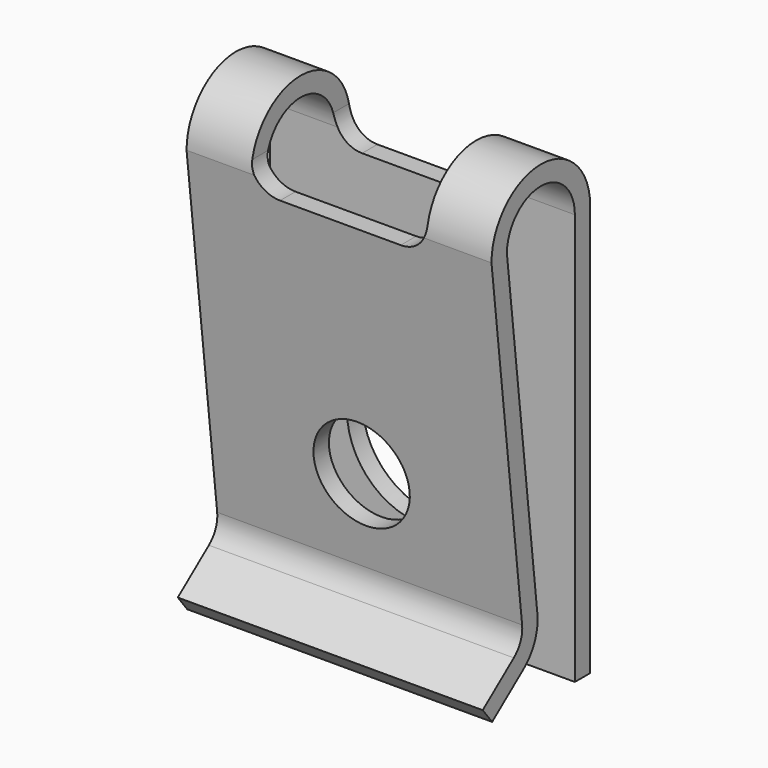
from build123d import *

# Parameters (mm, degrees)
F1_DEPTH = 5.56
F2_W     = 6.4
F2_H     = 3.95
F2_H_2   = 0.55
F2_R     = 1.75
F3_DEPTH = 4.901
F2_R_2   = 2.75
F4_DEPTH = 0.7
F5_R     = 1
F6_R     = 1.7


with BuildPart() as f1:
    # F0 (on Right) → F1 (new body, symmetric)
    with BuildSketch(Plane.YZ):
        with BuildLine():
            Line((1.55, -15), (2.25, -15))
            Line((2.25, -15), (2.25, 0))
            ThreePointArc((2.25, 0), (0, 2.25), (-2.25, 0))
            Line((-2.25, 0), (-0.790171, -12.749847))
            Line((-0.790171, -12.749847), (-2.65, -14.197634))
            Line((-2.65, -14.197634), (-2.22001, -14.75))
            Line((-2.22001, -14.75), (-0.05, -13.060752))
            Line((-0.05, -13.060752), (-1.549576, 0.036243))
            ThreePointArc((-1.549576, 0.036243), (0.018123, 1.549894), (1.55, 0))
            Line((1.55, 0), (1.55, -15))
        make_face()
    extrude(amount=F1_DEPTH, both=True)

    # F2 (on face) → F3 (cut, through all)
    with BuildSketch(Plane(origin=(0, 2.25, 0), x_dir=(-1, 0, 0), z_dir=(0, 1, 0))):
        with Locations((0, 1.975)):
            Rectangle(F2_W, F2_H)
        with Locations((0, -0.275)):
            Rectangle(F2_W, F2_H_2)
        with Locations((0, -9)):
            Circle(F2_R)
    extrude(amount=-F3_DEPTH, mode=Mode.SUBTRACT)

    # F2 (on face) → F4 (cut, through all)
    with BuildSketch(Plane(origin=(0, 2.25, 0), x_dir=(-1, 0, 0), z_dir=(0, 1, 0))):
        with Locations((0, -9)):
            Circle(F2_R_2)
        with Locations((0, -9)):
            Circle(F2_R, mode=Mode.SUBTRACT)
    extrude(amount=-F4_DEPTH, mode=Mode.SUBTRACT)

    # F5
    f5_edges = [f1.edges().sort_by_distance(p)[0] for p in [
        (-3.2, -1.83474, -0.55),
        (-3.2, 1.9, -0.55),
        (3.2, 1.9, -0.55),
        (3.2, -1.83474, -0.55),
        (0, -0.790171, -12.749847),
    ]]
    fillet(f5_edges, radius=F5_R)

    # F6
    f6_edges = [f1.edges().sort_by_distance(p)[0] for p in [
        (0, -0.05, -13.060752),
    ]]
    fillet(f6_edges, radius=F6_R)


solid = f1.part
